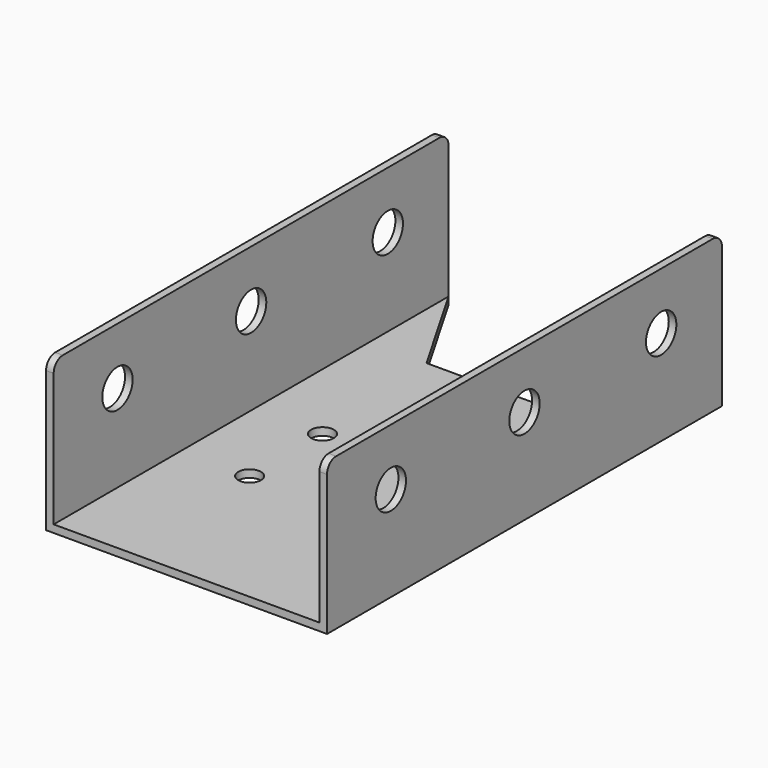
from build123d import *

# Parameters (mm, degrees)
CYLINDER001_R     = 5
CYLINDER001_DEPTH = 100
CYLINDER002_R     = 5
CYLINDER002_DEPTH = 100
CYLINDER_R        = 5
CYLINDER_DEPTH    = 100
BOX001_W          = 2
BOX001_H          = 130
BOX001_DEPTH      = 40
BOX_W             = 2
BOX_H             = 130
BOX_DEPTH         = 40
SKETCH_R          = 3
EXTRUDE_DEPTH     = 2
FILLET_R          = 3


with BuildPart() as obj1:
    # Cylinder001 → Cylinder001 (new body)
    with BuildSketch(Plane(origin=(-10, 65, 25), x_dir=(0, 0, -1), z_dir=(1, 0, 0))):
        Circle(CYLINDER001_R)
    extrude(amount=CYLINDER001_DEPTH)


with BuildPart() as obj2:
    # Cylinder002 → Cylinder002 (new body)
    with BuildSketch(Plane(origin=(-10, 21, 25), x_dir=(0, 0, -1), z_dir=(1, 0, 0))):
        Circle(CYLINDER002_R)
    extrude(amount=CYLINDER002_DEPTH)


with BuildPart() as fusion001:
    # Cylinder → Cylinder (new body)
    with BuildSketch(Plane(origin=(-10, 110, 25), x_dir=(0, 0, -1), z_dir=(1, 0, 0))):
        Circle(CYLINDER_R)
    extrude(amount=CYLINDER_DEPTH)

    # Fusion001: union obj1, obj2
    add(obj1.part)
    add(obj2.part)


with BuildPart() as krychle001:
    # Box001 → Box001 (new body)
    with BuildSketch(Plane(origin=(70, 0, 0), x_dir=(1, 0, 0), z_dir=(0, 0, 1))):
        with Locations((1, 65)):
            Rectangle(BOX001_W, BOX001_H)
    extrude(amount=BOX001_DEPTH)


with BuildPart() as cut:
    # Box → Box (new body)
    with BuildSketch(Plane(origin=(-2, 0, 0), x_dir=(1, 0, 0), z_dir=(0, 0, 1))):
        with Locations((1, 65)):
            Rectangle(BOX_W, BOX_H)
    extrude(amount=BOX_DEPTH)

    # Fusion: union Krychle001
    add(krychle001.part)

    # Cut: cut Fusion001
    add(fusion001.part, mode=Mode.SUBTRACT)


with BuildPart() as fillet_body:
    # Sketch → Extrude (new body)
    with BuildSketch(Plane.XY):
        Polygon((0, 130), (0, 0), (70, 0), (70, 130), (55, 104), (15, 104), align=None)
        with Locations((52, 66)):
            Circle(SKETCH_R, mode=Mode.SUBTRACT)
        with Locations((18, 42)):
            Circle(SKETCH_R, mode=Mode.SUBTRACT)
        with Locations((52, 42)):
            Circle(SKETCH_R, mode=Mode.SUBTRACT)
        with Locations((18, 66)):
            Circle(SKETCH_R, mode=Mode.SUBTRACT)
    extrude(amount=EXTRUDE_DEPTH)

    # Fusion002: union Cut
    add(cut.part)

    # Fillet
    fillet_edges = [fillet_body.edges().sort_by_distance(p)[0] for p in [
        (71, 130, 40),
        (71, 0, 40),
        (-1, 130, 40),
        (-1, 0, 40),
    ]]
    fillet(fillet_edges, radius=FILLET_R)


solid = fillet_body.part
